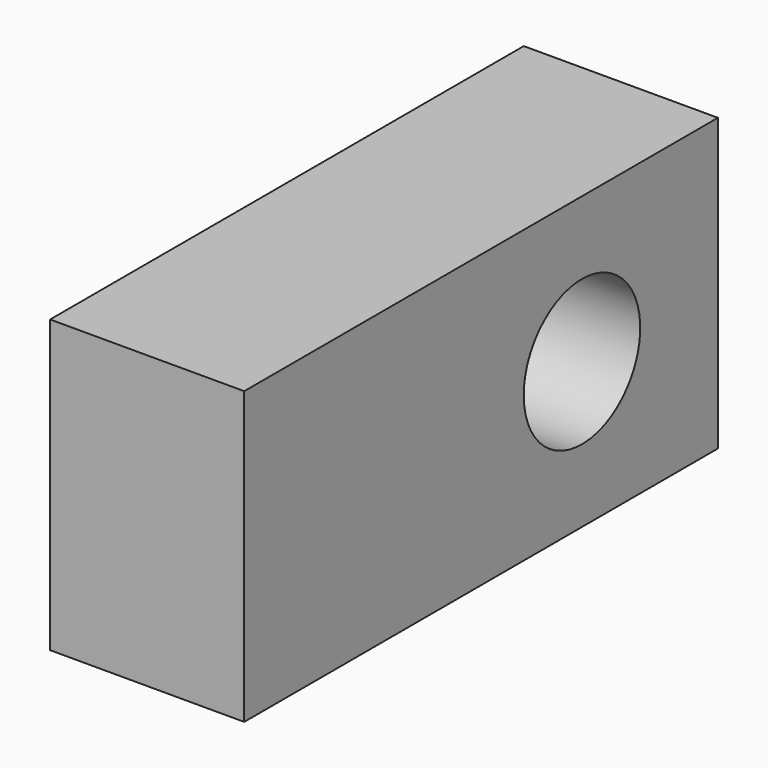
from build123d import *

# Parameters (mm, degrees)
SKETCH063_W      = 2
SKETCH063_H      = 3
EXTRUDE033_DEPTH = 6.1
SKETCH067_R      = 0.75
HOLE015_DEPTH    = 2
HOLE015_TIPS_R   = 0.75


with BuildPart() as part:
    # Sketch063 (on Face7 of Extrude026) → Extrude033 (new body)
    with BuildSketch(Plane(origin=(0, -130.299997, 0), x_dir=(-1, 0, 0), z_dir=(0, 1, 0))):
        with Locations((9, 3.5)):
            Rectangle(SKETCH063_W, SKETCH063_H)
    extrude(amount=EXTRUDE033_DEPTH)

    # Sketch067 (on Face4 of Extrude033) → Hole015 (cut)
    with BuildSketch(Plane(origin=(-10, 0, 0), x_dir=(0, -1, 0), z_dir=(-1, 0, 0))):
        with Locations((125.950268, 3.5)):
            Circle(SKETCH067_R)
    extrude(amount=-HOLE015_DEPTH, mode=Mode.SUBTRACT)

    # Hole015 tips → Hole015 tip 1 section 0
    with BuildSketch(Plane(origin=(-8, 0, 0), x_dir=(0, -1, 0), z_dir=(-1, 0, 0)), mode=Mode.PRIVATE) as hole015_tip_1_s0:
        with Locations((125.950268, 3.5)):
            Circle(HOLE015_TIPS_R)
    loft([hole015_tip_1_s0.sketch, Vertex(-7.549355, -125.950268, 3.5)], mode=Mode.SUBTRACT)


solid = part.part
